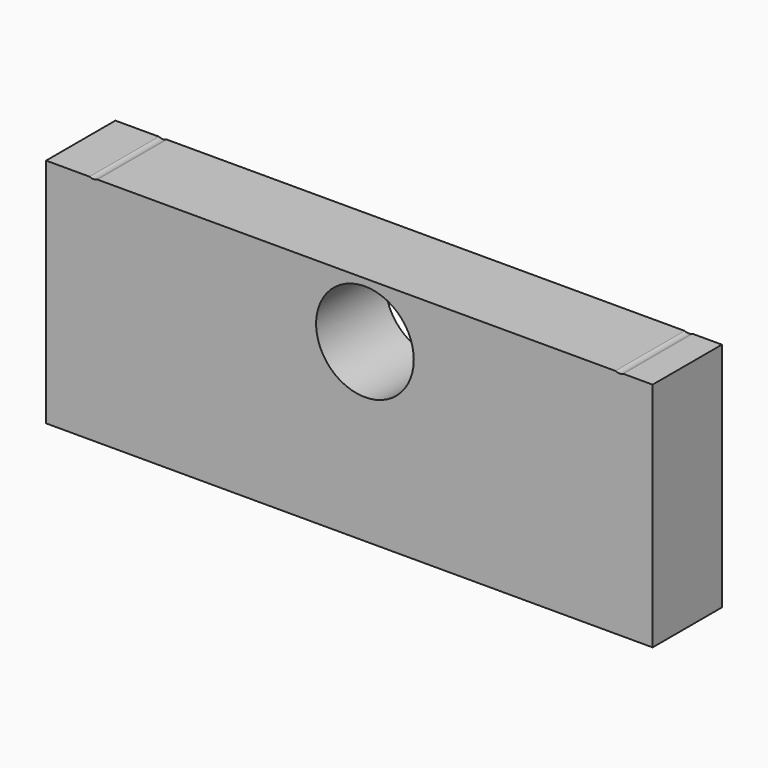
from build123d import *

# Parameters (mm, degrees)
F0_R     = 14.3129
F1_DEPTH = 25.4


with BuildPart() as f1:
    # F0 (on Front) → F1 (new body)
    with BuildSketch(Plane.XZ):
        with BuildLine():
            Line((-38.447507, 39.146728), (-51.203564, 39.146728))
            Line((-51.203564, 39.146728), (-51.203564, -28.671272))
            Line((-51.203564, -28.671272), (126.596436, -28.671272))
            Line((126.596436, -28.671272), (126.596436, 39.146728))
            Line((126.596436, 39.146728), (117.981013, 39.146728))
            ThreePointArc((117.981013, 39.146728), (116.836108, 38.87406), (115.691204, 39.146728))
            Line((115.691204, 39.146728), (-36.157697, 39.146728))
            ThreePointArc((-36.157697, 39.146728), (-37.302602, 38.87406), (-38.447507, 39.146728))
        make_face()
        with Locations((42.271748, 22.790955)):
            Circle(F0_R, mode=Mode.SUBTRACT)
    extrude(amount=F1_DEPTH)


solid = f1.part
